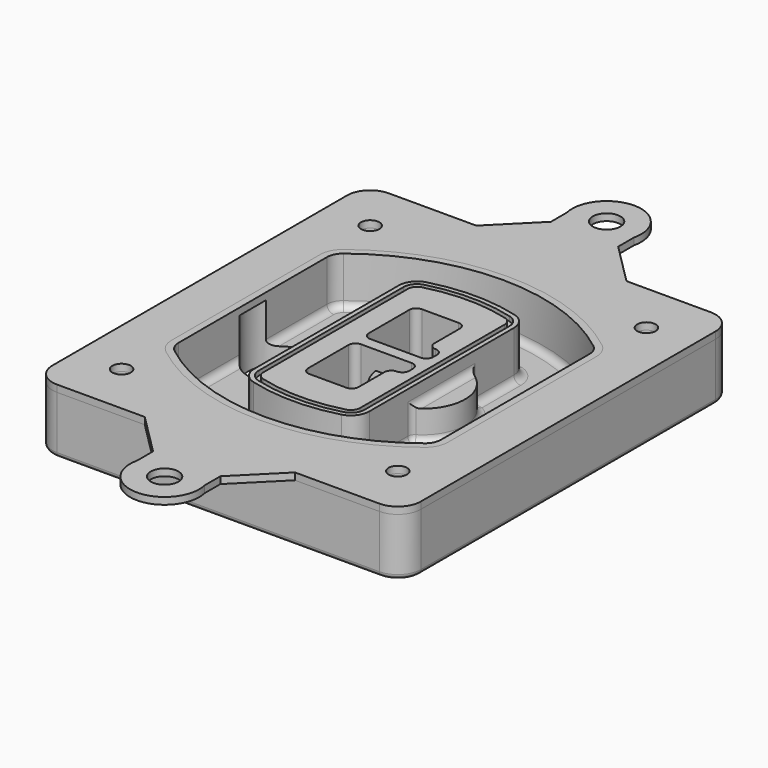
from build123d import *

# Parameters (mm, degrees)
F0_R      = 4
F1_DEPTH  = 25
F2_DEPTH  = 3
F3_DEPTH  = 18
F5_DEPTH  = 21
F6_DEPTH  = 2
F8_DEPTH  = 20
F9_DEPTH  = 16
F10_DEPTH = 25
F7_R      = 6
F7_R_2    = 4
F11_DEPTH = 6
F13_DEPTH = 9
F14_R     = 3
F15_R     = 2
F16_R     = 4
F16_R_2   = 6
F17_DEPTH = 3


with BuildPart() as f1:
    # F0 (on Top) → F1 (new body)
    with BuildSketch(Plane.XY):
        with BuildLine():
            ThreePointArc((-80, -80), (-77.0710678119, -87.0710678119), (-70, -90))
            Line((-70, -90), (70, -90))
            ThreePointArc((70, -90), (77.0710678119, -87.0710678119), (80, -80))
            Line((80, -80), (80, 80))
            ThreePointArc((80, 80), (77.0710678119, 87.0710678119), (70, 90))
            Line((70, 90), (-70, 90))
            ThreePointArc((-70, 90), (-77.0710678119, 87.0710678119), (-80, 80))
            Line((-80, 80), (-80, -80))
        make_face()
        with Locations((-60, -67.5)):
            Circle(F0_R, mode=Mode.SUBTRACT)
        with Locations((60, -67.5)):
            Circle(F0_R, mode=Mode.SUBTRACT)
        with Locations((-60, 67.5)):
            Circle(F0_R, mode=Mode.SUBTRACT)
        with BuildLine():
            ThreePointArc((-64, 40.2934422872), (-62.5820384798, 46.4328484224), (-58.6153846154, 51.3286200352))
            ThreePointArc((-58.6153846154, 51.3286200352), (0, 71.5), (58.6153846154, 51.3286200352))
            ThreePointArc((58.6153846154, 51.3286200352), (62.5820384798, 46.4328484224), (64, 40.2934422872))
            Line((64, 40.2934422872), (64, -40.2934422872))
            ThreePointArc((64, -40.2934422872), (62.5820384798, -46.4328484224), (58.6153846154, -51.3286200352))
            ThreePointArc((58.6153846154, -51.3286200352), (0, -71.5), (-58.6153846154, -51.3286200352))
            ThreePointArc((-58.6153846154, -51.3286200352), (-62.5820384798, -46.4328484224), (-64, -40.2934422872))
            Line((-64, -40.2934422872), (-64, 40.2934422872))
        make_face(mode=Mode.SUBTRACT)
        with Locations((60, 67.5)):
            Circle(F0_R, mode=Mode.SUBTRACT)
        with BuildLine():
            ThreePointArc((58.6153846154, 51.3286200352), (0, 71.5), (-58.6153846154, 51.3286200352))
            ThreePointArc((-58.6153846154, 51.3286200352), (-62.5820384798, 46.4328484224), (-64, 40.2934422872))
            Line((-64, 40.2934422872), (-64, -40.2934422872))
            ThreePointArc((-64, -40.2934422872), (-62.5820384798, -46.4328484224), (-58.6153846154, -51.3286200352))
            ThreePointArc((-58.6153846154, -51.3286200352), (0, -71.5), (58.6153846154, -51.3286200352))
            ThreePointArc((58.6153846154, -51.3286200352), (62.5820384798, -46.4328484224), (64, -40.2934422872))
            Line((64, -40.2934422872), (64, 40.2934422872))
            ThreePointArc((64, 40.2934422872), (62.5820384798, 46.4328484224), (58.6153846154, 51.3286200352))
        make_face()
        with BuildLine():
            Line((-60, -40.2934422872), (-60, 40.2934422872))
            ThreePointArc((-60, 40.2934422872), (-58.9871703427, 44.6787323838), (-56.1538461538, 48.1757121072))
            ThreePointArc((-56.1538461538, 48.1757121072), (0, 67.5), (56.1538461538, 48.1757121072))
            ThreePointArc((56.1538461538, 48.1757121072), (58.9871703427, 44.6787323838), (60, 40.2934422872))
            Line((60, 40.2934422872), (60, -40.2934422872))
            ThreePointArc((60, -40.2934422872), (58.9871703427, -44.6787323838), (56.1538461538, -48.1757121072))
            ThreePointArc((56.1538461538, -48.1757121072), (0, -67.5), (-56.1538461538, -48.1757121072))
            ThreePointArc((-56.1538461538, -48.1757121072), (-58.9871703427, -44.6787323838), (-60, -40.2934422872))
        make_face(mode=Mode.SUBTRACT)
        with BuildLine():
            ThreePointArc((-56.1538461538, 48.1757121072), (-58.9871703427, 44.6787323838), (-60, 40.2934422872))
            Line((-60, 40.2934422872), (-60, -40.2934422872))
            ThreePointArc((-60, -40.2934422872), (-58.9871703427, -44.6787323838), (-56.1538461538, -48.1757121072))
            ThreePointArc((-56.1538461538, -48.1757121072), (0, -67.5), (56.1538461538, -48.1757121072))
            ThreePointArc((56.1538461538, -48.1757121072), (58.9871703427, -44.6787323838), (60, -40.2934422872))
            Line((60, -40.2934422872), (60, 40.2934422872))
            ThreePointArc((60, 40.2934422872), (58.9871703427, 44.6787323838), (56.1538461538, 48.1757121072))
            ThreePointArc((56.1538461538, 48.1757121072), (0, 67.5), (-56.1538461538, 48.1757121072))
        make_face()
        with BuildLine():
            ThreePointArc((54.3076923077, 45.8110311612), (56.2910192399, 43.3631453548), (57, 40.2934422872))
            Line((57, 40.2934422872), (57, -40.2934422872))
            ThreePointArc((57, -40.2934422872), (56.2910192399, -43.3631453548), (54.3076923077, -45.8110311612))
            ThreePointArc((54.3076923077, -45.8110311612), (0, -64.5), (-54.3076923077, -45.8110311612))
            ThreePointArc((-54.3076923077, -45.8110311612), (-56.2910192399, -43.3631453548), (-57, -40.2934422872))
            Line((-57, -40.2934422872), (-57, 40.2934422872))
            ThreePointArc((-57, 40.2934422872), (-56.2910192399, 43.3631453548), (-54.3076923077, 45.8110311612))
            ThreePointArc((-54.3076923077, 45.8110311612), (0, 64.5), (54.3076923077, 45.8110311612))
        make_face(mode=Mode.SUBTRACT)
        with BuildLine():
            Line((57, -40.2934422872), (57, 40.2934422872))
            ThreePointArc((57, 40.2934422872), (56.2910192399, 43.3631453548), (54.3076923077, 45.8110311612))
            ThreePointArc((54.3076923077, 45.8110311612), (0, 64.5), (-54.3076923077, 45.8110311612))
            ThreePointArc((-54.3076923077, 45.8110311612), (-56.2910192399, 43.3631453548), (-57, 40.2934422872))
            Line((-57, 40.2934422872), (-57, -40.2934422872))
            ThreePointArc((-57, -40.2934422872), (-56.2910192399, -43.3631453548), (-54.3076923077, -45.8110311612))
            ThreePointArc((-54.3076923077, -45.8110311612), (0, -64.5), (54.3076923077, -45.8110311612))
            ThreePointArc((54.3076923077, -45.8110311612), (56.2910192399, -43.3631453548), (57, -40.2934422872))
        make_face()
    extrude(amount=-F1_DEPTH)

    # F0 (on Top) → F2 (join)
    with BuildSketch(Plane.XY):
        with BuildLine():
            ThreePointArc((-56.1538461538, 48.1757121072), (-58.9871703427, 44.6787323838), (-60, 40.2934422872))
            Line((-60, 40.2934422872), (-60, -40.2934422872))
            ThreePointArc((-60, -40.2934422872), (-58.9871703427, -44.6787323838), (-56.1538461538, -48.1757121072))
            ThreePointArc((-56.1538461538, -48.1757121072), (0, -67.5), (56.1538461538, -48.1757121072))
            ThreePointArc((56.1538461538, -48.1757121072), (58.9871703427, -44.6787323838), (60, -40.2934422872))
            Line((60, -40.2934422872), (60, 40.2934422872))
            ThreePointArc((60, 40.2934422872), (58.9871703427, 44.6787323838), (56.1538461538, 48.1757121072))
            ThreePointArc((56.1538461538, 48.1757121072), (0, 67.5), (-56.1538461538, 48.1757121072))
        make_face()
        with BuildLine():
            ThreePointArc((54.3076923077, 45.8110311612), (56.2910192399, 43.3631453548), (57, 40.2934422872))
            Line((57, 40.2934422872), (57, -40.2934422872))
            ThreePointArc((57, -40.2934422872), (56.2910192399, -43.3631453548), (54.3076923077, -45.8110311612))
            ThreePointArc((54.3076923077, -45.8110311612), (0, -64.5), (-54.3076923077, -45.8110311612))
            ThreePointArc((-54.3076923077, -45.8110311612), (-56.2910192399, -43.3631453548), (-57, -40.2934422872))
            Line((-57, -40.2934422872), (-57, 40.2934422872))
            ThreePointArc((-57, 40.2934422872), (-56.2910192399, 43.3631453548), (-54.3076923077, 45.8110311612))
            ThreePointArc((-54.3076923077, 45.8110311612), (0, 64.5), (54.3076923077, 45.8110311612))
        make_face(mode=Mode.SUBTRACT)
    extrude(amount=F2_DEPTH)

    # F0 (on Top) → F3 (cut)
    with BuildSketch(Plane.XY):
        with BuildLine():
            Line((57, -40.2934422872), (57, 40.2934422872))
            ThreePointArc((57, 40.2934422872), (56.2910192399, 43.3631453548), (54.3076923077, 45.8110311612))
            ThreePointArc((54.3076923077, 45.8110311612), (0, 64.5), (-54.3076923077, 45.8110311612))
            ThreePointArc((-54.3076923077, 45.8110311612), (-56.2910192399, 43.3631453548), (-57, 40.2934422872))
            Line((-57, 40.2934422872), (-57, -40.2934422872))
            ThreePointArc((-57, -40.2934422872), (-56.2910192399, -43.3631453548), (-54.3076923077, -45.8110311612))
            ThreePointArc((-54.3076923077, -45.8110311612), (0, -64.5), (54.3076923077, -45.8110311612))
            ThreePointArc((54.3076923077, -45.8110311612), (56.2910192399, -43.3631453548), (57, -40.2934422872))
        make_face()
    extrude(amount=-F3_DEPTH, mode=Mode.SUBTRACT)

    # F4 (on face) → F5 (join, through all)
    with BuildSketch(Plane.XY.offset(3)):
        with BuildLine():
            ThreePointArc((-25, -39.2465276821), (-23.3511545998, -44.1109737193), (-19.0842911877, -46.9702398883))
            ThreePointArc((-19.0842911877, -46.9702398883), (0, -49.5), (19.0842911877, -46.9702398883))
            ThreePointArc((19.0842911877, -46.9702398883), (23.3511545998, -44.1109737193), (25, -39.2465276821))
            Line((25, -39.2465276821), (25, 39.2465276821))
            ThreePointArc((25, 39.2465276821), (23.3511545998, 44.1109737193), (19.0842911877, 46.9702398883))
            ThreePointArc((19.0842911877, 46.9702398883), (0, 49.5), (-19.0842911877, 46.9702398883))
            ThreePointArc((-19.0842911877, 46.9702398883), (-23.3511545998, 44.1109737193), (-25, 39.2465276821))
            Line((-25, 39.2465276821), (-25, -39.2465276821))
        make_face()
        with BuildLine():
            ThreePointArc((18.5632183908, 45.0393118368), (21.7633659499, 42.89486221), (23, 39.2465276821))
            Line((23, 39.2465276821), (23, -39.2465276821))
            ThreePointArc((23, -39.2465276821), (21.7633659499, -42.89486221), (18.5632183908, -45.0393118368))
            ThreePointArc((18.5632183908, -45.0393118368), (0, -47.5), (-18.5632183908, -45.0393118368))
            ThreePointArc((-18.5632183908, -45.0393118368), (-21.7633659499, -42.89486221), (-23, -39.2465276821))
            Line((-23, -39.2465276821), (-23, 39.2465276821))
            ThreePointArc((-23, 39.2465276821), (-21.7633659499, 42.89486221), (-18.5632183908, 45.0393118368))
            ThreePointArc((-18.5632183908, 45.0393118368), (0, 47.5), (18.5632183908, 45.0393118368))
        make_face(mode=Mode.SUBTRACT)
        with BuildLine():
            Line((23, -39.2465276821), (23, 39.2465276821))
            ThreePointArc((23, 39.2465276821), (21.7633659499, 42.89486221), (18.5632183908, 45.0393118368))
            ThreePointArc((18.5632183908, 45.0393118368), (0, 47.5), (-18.5632183908, 45.0393118368))
            ThreePointArc((-18.5632183908, 45.0393118368), (-21.7633659499, 42.89486221), (-23, 39.2465276821))
            Line((-23, 39.2465276821), (-23, -39.2465276821))
            ThreePointArc((-23, -39.2465276821), (-21.7633659499, -42.89486221), (-18.5632183908, -45.0393118368))
            ThreePointArc((-18.5632183908, -45.0393118368), (0, -47.5), (18.5632183908, -45.0393118368))
            ThreePointArc((18.5632183908, -45.0393118368), (21.7633659499, -42.89486221), (23, -39.2465276821))
        make_face()
        with BuildLine():
            ThreePointArc((18.0421455939, 43.1083837852), (20.1755772999, 41.6787507007), (21, 39.2465276821))
            Line((21, 39.2465276821), (21, -39.2465276821))
            ThreePointArc((21, -39.2465276821), (20.1755772999, -41.6787507007), (18.0421455939, -43.1083837852))
            ThreePointArc((18.0421455939, -43.1083837852), (0, -45.5), (-18.0421455939, -43.1083837852))
            ThreePointArc((-18.0421455939, -43.1083837852), (-20.1755772999, -41.6787507007), (-21, -39.2465276821))
            Line((-21, -39.2465276821), (-21, 39.2465276821))
            ThreePointArc((-21, 39.2465276821), (-20.1755772999, 41.6787507007), (-18.0421455939, 43.1083837852))
            ThreePointArc((-18.0421455939, 43.1083837852), (0, 45.5), (18.0421455939, 43.1083837852))
        make_face(mode=Mode.SUBTRACT)
        with BuildLine():
            Line((21, -39.2465276821), (21, 39.2465276821))
            ThreePointArc((21, 39.2465276821), (20.1755772999, 41.6787507007), (18.0421455939, 43.1083837852))
            ThreePointArc((18.0421455939, 43.1083837852), (0, 45.5), (-18.0421455939, 43.1083837852))
            ThreePointArc((-18.0421455939, 43.1083837852), (-20.1755772999, 41.6787507007), (-21, 39.2465276821))
            Line((-21, 39.2465276821), (-21, -39.2465276821))
            ThreePointArc((-21, -39.2465276821), (-20.1755772999, -41.6787507007), (-18.0421455939, -43.1083837852))
            ThreePointArc((-18.0421455939, -43.1083837852), (0, -45.5), (18.0421455939, -43.1083837852))
            ThreePointArc((18.0421455939, -43.1083837852), (20.1755772999, -41.6787507007), (21, -39.2465276821))
        make_face()
        with BuildLine():
            Line((-8, -2.5), (14, -2.5))
            ThreePointArc((14, -2.5), (16.1213203436, -3.3786796564), (17, -5.5))
            Line((17, -5.5), (17, -7.5))
            ThreePointArc((17, -7.5), (16.1213203436, -9.6213203436), (14, -10.5))
            ThreePointArc((14, -10.5), (11.8786796564, -11.3786796564), (11, -13.5))
            Line((11, -13.5), (11, -27.5))
            ThreePointArc((11, -27.5), (10.1213203436, -29.6213203436), (8, -30.5))
            Line((8, -30.5), (-8, -30.5))
            ThreePointArc((-8, -30.5), (-10.1213203436, -29.6213203436), (-11, -27.5))
            Line((-11, -27.5), (-11, -5.5))
            ThreePointArc((-11, -5.5), (-10.1213203436, -3.3786796564), (-8, -2.5))
        make_face(mode=Mode.SUBTRACT)
        with BuildLine():
            ThreePointArc((-8, 2.5), (-10.1213203436, 3.3786796564), (-11, 5.5))
            Line((-11, 5.5), (-11, 27.5))
            ThreePointArc((-11, 27.5), (-10.1213203436, 29.6213203436), (-8, 30.5))
            Line((-8, 30.5), (8, 30.5))
            ThreePointArc((8, 30.5), (10.1213203436, 29.6213203436), (11, 27.5))
            Line((11, 27.5), (11, 13.5))
            ThreePointArc((11, 13.5), (11.8786796564, 11.3786796564), (14, 10.5))
            ThreePointArc((14, 10.5), (16.1213203436, 9.6213203436), (17, 7.5))
            Line((17, 7.5), (17, 5.5))
            ThreePointArc((17, 5.5), (16.1213203436, 3.3786796564), (14, 2.5))
            Line((14, 2.5), (-8, 2.5))
        make_face(mode=Mode.SUBTRACT)
    extrude(amount=-F5_DEPTH)

    # F4 (on face) → F6 (cut)
    with BuildSketch(Plane.XY.offset(3)):
        with BuildLine():
            Line((23, -39.2465276821), (23, 39.2465276821))
            ThreePointArc((23, 39.2465276821), (21.7633659499, 42.89486221), (18.5632183908, 45.0393118368))
            ThreePointArc((18.5632183908, 45.0393118368), (0, 47.5), (-18.5632183908, 45.0393118368))
            ThreePointArc((-18.5632183908, 45.0393118368), (-21.7633659499, 42.89486221), (-23, 39.2465276821))
            Line((-23, 39.2465276821), (-23, -39.2465276821))
            ThreePointArc((-23, -39.2465276821), (-21.7633659499, -42.89486221), (-18.5632183908, -45.0393118368))
            ThreePointArc((-18.5632183908, -45.0393118368), (0, -47.5), (18.5632183908, -45.0393118368))
            ThreePointArc((18.5632183908, -45.0393118368), (21.7633659499, -42.89486221), (23, -39.2465276821))
        make_face()
        with BuildLine():
            ThreePointArc((18.0421455939, 43.1083837852), (20.1755772999, 41.6787507007), (21, 39.2465276821))
            Line((21, 39.2465276821), (21, -39.2465276821))
            ThreePointArc((21, -39.2465276821), (20.1755772999, -41.6787507007), (18.0421455939, -43.1083837852))
            ThreePointArc((18.0421455939, -43.1083837852), (0, -45.5), (-18.0421455939, -43.1083837852))
            ThreePointArc((-18.0421455939, -43.1083837852), (-20.1755772999, -41.6787507007), (-21, -39.2465276821))
            Line((-21, -39.2465276821), (-21, 39.2465276821))
            ThreePointArc((-21, 39.2465276821), (-20.1755772999, 41.6787507007), (-18.0421455939, 43.1083837852))
            ThreePointArc((-18.0421455939, 43.1083837852), (0, 45.5), (18.0421455939, 43.1083837852))
        make_face(mode=Mode.SUBTRACT)
    extrude(amount=-F6_DEPTH, mode=Mode.SUBTRACT)

    # F7 (on face) → F8 (join)
    with BuildSketch(Plane(origin=(0, 0, -25), x_dir=(1, 0, 0), z_dir=(0, 0, -1))):
        with BuildLine():
            ThreePointArc((3.28842436, 0), (16.7567035675, 13.4682792075), (30.224982775, 0))
            Line((30.224982775, 0), (35.224982775, 0))
            ThreePointArc((35.224982775, 0), (16.7567035675, 18.4682792075), (-1.71157564, 0))
            Line((-1.71157564, 0), (3.28842436, 0))
        make_face()
        with BuildLine():
            Line((3.28842436, 0), (30.224982775, 0))
            ThreePointArc((30.224982775, 0), (16.7567035675, 13.4682792075), (3.28842436, 0))
        make_face()
        with BuildLine():
            ThreePointArc((3.28842436, 0), (16.7567035675, -13.4682792075), (30.224982775, 0))
            Line((30.224982775, 0), (3.28842436, 0))
        make_face()
        with BuildLine():
            Line((35.224982775, 0), (30.224982775, 0))
            ThreePointArc((30.224982775, 0), (16.7567035675, -13.4682792075), (3.28842436, 0))
            Line((3.28842436, 0), (-1.71157564, 0))
            ThreePointArc((-1.71157564, 0), (16.7567035675, -18.4682792075), (35.224982775, 0))
        make_face()
    extrude(amount=-F8_DEPTH)

    # F7 (on face) → F9 (cut)
    with BuildSketch(Plane(origin=(0, 0, -25), x_dir=(1, 0, 0), z_dir=(0, 0, -1))):
        with BuildLine():
            Line((3.28842436, 0), (30.224982775, 0))
            ThreePointArc((30.224982775, 0), (16.7567035675, 13.4682792075), (3.28842436, 0))
        make_face()
        with BuildLine():
            ThreePointArc((3.28842436, 0), (16.7567035675, -13.4682792075), (30.224982775, 0))
            Line((30.224982775, 0), (3.28842436, 0))
        make_face()
    extrude(amount=-F9_DEPTH, mode=Mode.SUBTRACT)

    # F7 (on face) → F10 (cut)
    with BuildSketch(Plane(origin=(0, 0, -25), x_dir=(1, 0, 0), z_dir=(0, 0, -1))):
        with BuildLine():
            Line((-59.0318229325, 0), (-32.0952645175, 0))
            ThreePointArc((-32.0952645175, 0), (-45.563543725, 13.4682792075), (-59.0318229325, 0))
        make_face()
        with BuildLine():
            ThreePointArc((-59.0318229325, 0), (-45.563543725, -13.4682792075), (-32.0952645175, 0))
            Line((-32.0952645175, 0), (-59.0318229325, 0))
        make_face()
    extrude(amount=-F10_DEPTH, mode=Mode.SUBTRACT)

    # F7 (on face) → F11 (cut)
    with BuildSketch(Plane(origin=(0, 0, -25), x_dir=(1, 0, 0), z_dir=(0, 0, -1))):
        with Locations((60, -67.5)):
            Circle(F7_R)
        with Locations((60, -67.5)):
            Circle(F7_R_2, mode=Mode.SUBTRACT)
        with Locations((60, -67.5)):
            Circle(F7_R)
        with Locations((60, -67.5)):
            Circle(F7_R_2, mode=Mode.SUBTRACT)
        with Locations((-60, -67.5)):
            Circle(F7_R)
        with Locations((-60, -67.5)):
            Circle(F7_R_2, mode=Mode.SUBTRACT)
        with Locations((-60, -67.5)):
            Circle(F7_R)
        with Locations((-60, -67.5)):
            Circle(F7_R_2, mode=Mode.SUBTRACT)
        with Locations((-60, 67.5)):
            Circle(F7_R)
        with Locations((-60, 67.5)):
            Circle(F7_R_2, mode=Mode.SUBTRACT)
        with Locations((-60, 67.5)):
            Circle(F7_R)
        with Locations((-60, 67.5)):
            Circle(F7_R_2, mode=Mode.SUBTRACT)
        with Locations((60, 67.5)):
            Circle(F7_R)
        with Locations((60, 67.5)):
            Circle(F7_R_2, mode=Mode.SUBTRACT)
        with Locations((60, 67.5)):
            Circle(F7_R)
        with Locations((60, 67.5)):
            Circle(F7_R_2, mode=Mode.SUBTRACT)
    extrude(amount=-F11_DEPTH, mode=Mode.SUBTRACT)

    # F12 (on face) → F13 (cut, through all)
    with BuildSketch(Plane(origin=(0, 0, -9), x_dir=(1, 0, 0), z_dir=(0, 0, -1))):
        with BuildLine():
            Line((11, 13.5), (11, 17.5481537753))
            ThreePointArc((11, 17.5481537753), (2.5696536419, 11.8239143813), (-1.5415842455, 2.5))
            Line((-1.5415842455, 2.5), (3.5224848595, 2.5))
            ThreePointArc((3.5224848595, 2.5), (6.1857188154, 8.3455872281), (11.2536447004, 12.2927168648))
            ThreePointArc((11.2536447004, 12.2927168648), (11.0640958889, 12.8831798879), (11, 13.5))
        make_face()
        with BuildLine():
            ThreePointArc((11.2536447004, -12.2927168648), (6.1857188154, -8.3455872281), (3.5224848595, -2.5))
            Line((3.5224848595, -2.5), (-1.5415842455, -2.5))
            ThreePointArc((-1.5415842455, -2.5), (2.5696536419, -11.8239143813), (11, -17.5481537753))
            Line((11, -17.5481537753), (11, -13.5))
            ThreePointArc((11, -13.5), (11.0640958889, -12.8831798879), (11.2536447004, -12.2927168648))
        make_face()
        with BuildLine():
            ThreePointArc((11.2536447004, 12.2927168648), (6.1857188154, 8.3455872281), (3.5224848595, 2.5))
            Line((3.5224848595, 2.5), (14, 2.5))
            ThreePointArc((14, 2.5), (16.1213203436, 3.3786796564), (17, 5.5))
            Line((17, 5.5), (17, 7.5))
            ThreePointArc((17, 7.5), (16.1213203436, 9.6213203436), (14, 10.5))
            ThreePointArc((14, 10.5), (12.3601599782, 10.9878446101), (11.2536447004, 12.2927168648))
        make_face()
        with BuildLine():
            Line((14, -2.5), (3.5224848595, -2.5))
            ThreePointArc((3.5224848595, -2.5), (6.1857188154, -8.3455872281), (11.2536447004, -12.2927168648))
            ThreePointArc((11.2536447004, -12.2927168648), (12.3601599782, -10.9878446101), (14, -10.5))
            ThreePointArc((14, -10.5), (16.1213203436, -9.6213203436), (17, -7.5))
            Line((17, -7.5), (17, -5.5))
            ThreePointArc((17, -5.5), (16.1213203436, -3.3786796564), (14, -2.5))
        make_face()
    extrude(amount=F13_DEPTH, mode=Mode.SUBTRACT)

    # F14
    f14_edges = [f1.edges().sort_by_distance(p)[0] for p in [
        (-57, -23.703476, -18),
        (-57, 23.703476, -18),
        (25, 0, -5),
        (25, 16.526506, -11.5),
        (25, -16.526506, -11.5),
        (25, -27.886517, -18),
        (35.224983, 0, -18),
    ]]
    fillet(f14_edges, radius=F14_R)

    # F15
    f15_edges = [f1.edges().sort_by_distance(p)[0] for p in [
        (0, -90, -25),
    ]]
    fillet(f15_edges, radius=F15_R)


with BuildPart() as f17:
    # F16 (on face) → F17 (new body, through all)
    with BuildSketch(Plane.XY):
        with BuildLine():
            Line((-80, 80), (-80, -80))
            ThreePointArc((-80, -80), (-77.0710678119, -87.0710678119), (-70, -90))
            Line((-70, -90), (-31.9140570536, -90))
            Line((-31.9140570536, -90), (33.3209053595, -90))
            Line((33.3209053595, -90), (70, -90))
            ThreePointArc((70, -90), (77.0710678119, -87.0710678119), (80, -80))
            Line((80, -80), (80, 80))
            ThreePointArc((80, 80), (77.0710678119, 87.0710678119), (70, 90))
            Line((70, 90), (33.3209053595, 90))
            Line((33.3209053595, 90), (-31.9140570536, 90))
            Line((-31.9140570536, 90), (-70, 90))
            ThreePointArc((-70, 90), (-77.0710678119, 87.0710678119), (-80, 80))
        make_face()
        with Locations((-60, -67.5)):
            Circle(F16_R, mode=Mode.SUBTRACT)
        with Locations((60, -67.5)):
            Circle(F16_R, mode=Mode.SUBTRACT)
        with Locations((-60, 67.5)):
            Circle(F16_R, mode=Mode.SUBTRACT)
        with BuildLine():
            ThreePointArc((-56.1538461538, 48.1757121072), (0, 67.5), (56.1538461538, 48.1757121072))
            ThreePointArc((56.1538461538, 48.1757121072), (58.9871703427, 44.6787323838), (60, 40.2934422872))
            Line((60, 40.2934422872), (60, -40.2934422872))
            ThreePointArc((60, -40.2934422872), (58.9871703427, -44.6787323838), (56.1538461538, -48.1757121072))
            ThreePointArc((56.1538461538, -48.1757121072), (0, -67.5), (-56.1538461538, -48.1757121072))
            ThreePointArc((-56.1538461538, -48.1757121072), (-58.9871703427, -44.6787323838), (-60, -40.2934422872))
            Line((-60, -40.2934422872), (-60, 40.2934422872))
            ThreePointArc((-60, 40.2934422872), (-58.9871703427, 44.6787323838), (-56.1538461538, 48.1757121072))
        make_face(mode=Mode.SUBTRACT)
        with Locations((60, 67.5)):
            Circle(F16_R, mode=Mode.SUBTRACT)
        with BuildLine():
            Line((33.3209053595, -90), (-31.9140570536, -90))
            Line((-31.9140570536, -90), (-13.9140570536, -108))
            Line((-13.9140570536, -108), (-13.9140570536, -116.6341058875))
            ThreePointArc((-13.9140570536, -116.6341058875), (0.7034241529, -135), (15.3209053595, -116.6341058875))
            Line((15.3209053595, -116.6341058875), (15.3209053595, -108))
            Line((15.3209053595, -108), (33.3209053595, -90))
        make_face()
        with Locations((0.7034241529, -120)):
            Circle(F16_R_2, mode=Mode.SUBTRACT)
        with BuildLine():
            Line((-13.9140570536, 108), (-31.9140570536, 90))
            Line((-31.9140570536, 90), (33.3209053595, 90))
            Line((33.3209053595, 90), (15.3209053595, 108))
            Line((15.3209053595, 108), (15.3209053595, 116.6341058875))
            ThreePointArc((15.3209053595, 116.6341058875), (0.7034241529, 135), (-13.9140570536, 116.6341058875))
            Line((-13.9140570536, 116.6341058875), (-13.9140570536, 108))
        make_face()
        with Locations((0.7034241529, 120)):
            Circle(F16_R_2, mode=Mode.SUBTRACT)
    extrude(amount=F17_DEPTH)


solid = Compound([f1.part, f17.part])
